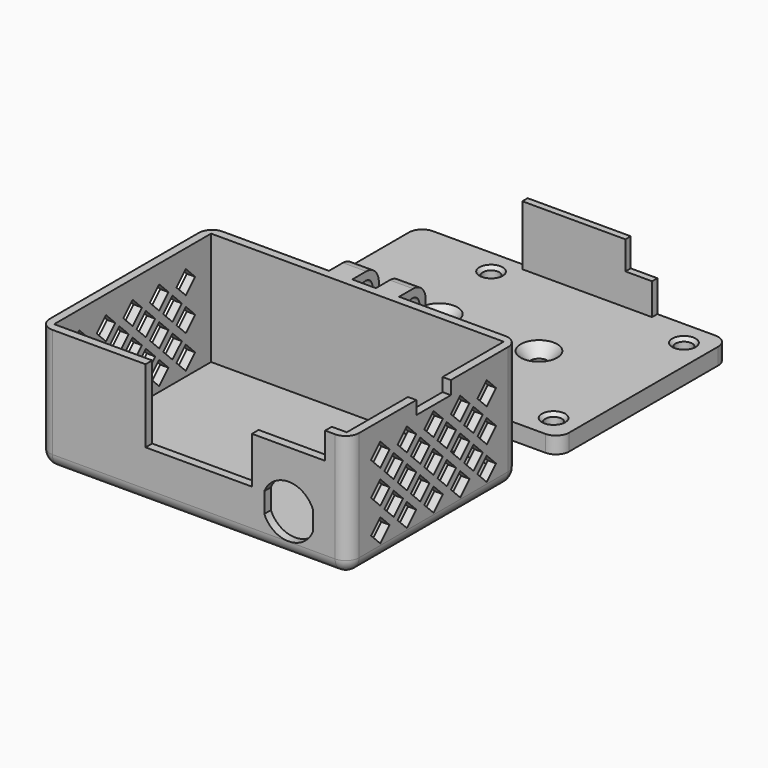
from build123d import *

# Parameters (mm, degrees)
PAD_DEPTH        = 37
SKETCH001_W      = 88
SKETCH001_H      = 59
POCKET_DEPTH     = 34
POCKET001_DEPTH  = 93.001
POCKET002_DEPTH  = 2.5
POCKET003_DEPTH  = 2.5
FILLET_R         = 4
SKETCH012_W      = 7
SKETCH012_H      = 10
PAD005_DEPTH     = 10
FILLET003_R      = 4.75
CHAMFER003_ANGLE = 35
CHAMFER003_SIZE  = 5.2
CHAMFER004_ANGLE = 35
CHAMFER004_SIZE  = 5.2
SKETCH013_R      = 2.6
POCKET007_DEPTH  = 57.051
SKETCH015_W      = 2.5
SKETCH015_H      = 13
POCKET008_DEPTH  = 4
SKETCH005_W      = 93
SKETCH005_H      = 64
PAD001_DEPTH     = 5
FILLET001_R      = 4
SKETCH006_R      = 2.5
POCKET004_DEPTH  = 5.001
CHAMFER_ANGLE    = 48
CHAMFER_SIZE     = 3
SKETCH007_R      = 2.5
POCKET005_DEPTH  = 4.2
CHAMFER001_SIZE  = 1
SKETCH008_W      = 39
SKETCH008_H      = 2
PAD002_DEPTH     = 2
SKETCH009_W      = 31
SKETCH009_H      = 2
PAD003_DEPTH     = 16
SKETCH010_W      = 6.9
SKETCH010_H      = 10
PAD004_DEPTH     = 15
SKETCH014_W      = 8
SKETCH014_H      = 2
PAD006_DEPTH     = 7.5
FILLET004_R      = 4.75
SKETCH016_R      = 2.6
POCKET009_DEPTH  = 64.051
FILLET005_R      = 1


with BuildPart() as body:
    # Sketch → Pad (new body)
    with BuildSketch(Plane.XY):
        with BuildLine():
            Line((0, 4), (0, 60))
            ThreePointArc((4, 64), (1.171573, 62.828427), (0, 60))
            Line((4, 64), (89, 64))
            ThreePointArc((93, 60), (91.828427, 62.828427), (89, 64))
            Line((93, 4), (93, 60))
            ThreePointArc((89, 0), (91.828427, 1.171573), (93, 4))
            Line((4, 0), (89, 0))
            ThreePointArc((0, 4), (1.171573, 1.171573), (4, 0))
        make_face()
    extrude(amount=PAD_DEPTH)

    # Sketch001 (on Face10 of Pad) → Pocket (cut)
    with BuildSketch(Plane.XY.offset(37)):
        with Locations((46.5, 32)):
            Rectangle(SKETCH001_W, SKETCH001_H)
    extrude(amount=-POCKET_DEPTH, mode=Mode.SUBTRACT)

    # Sketch002 (on Face1 of Pocket) → Pocket001 (cut, through all)
    with BuildSketch(Plane(origin=(0, 0, 0), x_dir=(0, -1, 0), z_dir=(-1, 0, 0))):
        Polygon((-52, 4.5), (-48.5, 8), (-52, 11.5), (-55.5, 8), align=None)
        Polygon((-52, 14.5), (-48.5, 18), (-52, 21.5), (-55.5, 18), align=None)
        Polygon((-52, 24.5), (-48.5, 28), (-52, 31.5), (-55.5, 28), align=None)
        Polygon((-42, 24.5), (-38.5, 28), (-42, 31.5), (-45.5, 28), align=None)
        Polygon((-42, 14.5), (-38.5, 18), (-42, 21.5), (-45.5, 18), align=None)
        Polygon((-42, 4.5), (-38.5, 8), (-42, 11.5), (-45.5, 8), align=None)
        Polygon((-32, 24.5), (-28.5, 28), (-32, 31.5), (-35.5, 28), align=None)
        Polygon((-32, 14.5), (-28.5, 18), (-32, 21.5), (-35.5, 18), align=None)
        Polygon((-32, 4.5), (-28.5, 8), (-32, 11.5), (-35.5, 8), align=None)
        Polygon((-22, 24.5), (-18.5, 28), (-22, 31.5), (-25.5, 28), align=None)
        Polygon((-22, 14.5), (-18.5, 18), (-22, 21.5), (-25.5, 18), align=None)
        Polygon((-22, 4.5), (-18.5, 8), (-22, 11.5), (-25.5, 8), align=None)
        Polygon((-12, 24.5), (-8.5, 28), (-12, 31.5), (-15.5, 28), align=None)
        Polygon((-12, 14.5), (-8.5, 18), (-12, 21.5), (-15.5, 18), align=None)
        Polygon((-12, 4.5), (-8.5, 8), (-12, 11.5), (-15.5, 8), align=None)
        Polygon((-47, 9.5), (-43.5, 13), (-47, 16.5), (-50.5, 13), align=None)
        Polygon((-37, 9.5), (-33.5, 13), (-37, 16.5), (-40.5, 13), align=None)
        Polygon((-27, 9.5), (-23.5, 13), (-27, 16.5), (-30.5, 13), align=None)
        Polygon((-17, 9.5), (-13.5, 13), (-17, 16.5), (-20.5, 13), align=None)
        Polygon((-17, 19.5), (-13.5, 23), (-17, 26.5), (-20.5, 23), align=None)
        Polygon((-27, 19.5), (-23.5, 23), (-27, 26.5), (-30.5, 23), align=None)
        Polygon((-37, 19.5), (-33.5, 23), (-37, 26.5), (-40.5, 23), align=None)
        Polygon((-47, 19.5), (-43.5, 23), (-47, 26.5), (-50.5, 23), align=None)
    extrude(amount=-POCKET001_DEPTH, mode=Mode.SUBTRACT)

    # Sketch003 (on Face98 of Pocket001) → Pocket002 (cut)
    with BuildSketch(Plane.XZ):
        with BuildLine():
            Line((67.7, 15.019934), (67.7, 8.980066))
            ThreePointArc((67.7, 8.980066), (75, 4.1), (82.3, 8.980066))
            Line((82.3, 15.019934), (82.3, 8.980066))
            ThreePointArc((82.3, 15.019934), (75, 19.9), (67.7, 15.019934))
        make_face()
    extrude(amount=-POCKET002_DEPTH, mode=Mode.SUBTRACT)

    # Sketch004 (on Face98 of Pocket002) → Pocket003 (cut)
    with BuildSketch(Plane.XZ):
        Polygon((32, 37), (32, 15), (64, 15), (64, 29), (86, 29), (86, 37), align=None)
    extrude(amount=-POCKET003_DEPTH, mode=Mode.SUBTRACT)

    # Fillet
    fillet_edges = [body.edges().sort_by_distance(p)[0] for p in [
        (93, 32, 0),
    ]]
    fillet(fillet_edges, radius=FILLET_R)

    # Sketch012 (on Face102 of Fillet) → Pad005 (join)
    with BuildSketch(Plane(origin=(0, 64, 0), x_dir=(-1, 0, 0), z_dir=(0, 1, 0))):
        with Locations((-53.55, 32)):
            Rectangle(SKETCH012_W, SKETCH012_H)
        with Locations((-39.45, 32)):
            Rectangle(SKETCH012_W, SKETCH012_H)
    extrude(amount=PAD005_DEPTH)

    # Fillet003
    fillet003_edges = [body.edges().sort_by_distance(p)[0] for p in [
        (39.45, 74, 37),
        (53.55, 74, 37),
        (53.55, 74, 27),
        (39.45, 74, 27),
    ]]
    fillet(fillet003_edges, radius=FILLET003_R)

    # Chamfer003
    chamfer003_edges = [body.edges().sort_by_distance(p)[0] for p in [
        (53.55, 64, 27),
    ]]
    chamfer003_side = body.faces().sort_by_distance((53.55, 66.625, 27))[0]
    chamfer(chamfer003_edges, length=CHAMFER003_SIZE, angle=CHAMFER003_ANGLE, reference=chamfer003_side)

    # Chamfer004
    chamfer004_edges = [body.edges().sort_by_distance(p)[0] for p in [
        (39.45, 64, 27),
    ]]
    chamfer004_side = body.faces().sort_by_distance((39.45, 66.625, 27))[0]
    chamfer(chamfer004_edges, length=CHAMFER004_SIZE, angle=CHAMFER004_ANGLE, reference=chamfer004_side)

    # Sketch013 (on Face2 of Chamfer004) → Pocket007 (cut, through all)
    with BuildSketch(Plane(origin=(35.95, 0, 0), x_dir=(0, -1, 0), z_dir=(-1, 0, 0))):
        with Locations((-69, 32)):
            Circle(SKETCH013_R)
    extrude(amount=-POCKET007_DEPTH, mode=Mode.SUBTRACT)

    # Sketch015 (on Face4 of Pocket007) → Pocket008 (cut)
    with BuildSketch(Plane.XY.offset(37)):
        with Locations((91.75, 32)):
            Rectangle(SKETCH015_W, SKETCH015_H)
    extrude(amount=-POCKET008_DEPTH, mode=Mode.SUBTRACT)


with BuildPart() as body001:
    # Sketch005 → Pad001 (new body)
    with BuildSketch(Plane.XY):
        with Locations((46.5, 111)):
            Rectangle(SKETCH005_W, SKETCH005_H)
    extrude(amount=PAD001_DEPTH)

    # Fillet001
    fillet001_edges = [body001.edges().sort_by_distance(p)[0] for p in [
        (93, 143, 2.5),
        (93, 79, 2.5),
        (0, 79, 2.5),
        (0, 143, 2.5),
    ]]
    fillet(fillet001_edges, radius=FILLET001_R)

    # Sketch006 (on Face5 of Fillet001) → Pocket004 (cut, through all)
    with BuildSketch(Plane.XY.offset(5)):
        with Locations((31.5, 111)):
            Circle(SKETCH006_R)
        with Locations((61.5, 111)):
            Circle(SKETCH006_R)
    extrude(amount=-POCKET004_DEPTH, mode=Mode.SUBTRACT)

    # Chamfer
    chamfer_edges = [body001.edges().sort_by_distance(p)[0] for p in [
        (59, 111, 5),
        (29, 111, 5),
    ]]
    chamfer_side = body001.faces().sort_by_distance((46.5, 111, 5))[0]
    chamfer(chamfer_edges, length=CHAMFER_SIZE, angle=CHAMFER_ANGLE, reference=chamfer_side)

    # Sketch007 (on Face1 of Chamfer) → Pocket005 (cut)
    with BuildSketch(Plane.XY.offset(5)):
        with Locations((27.5, 86.5)):
            Circle(SKETCH007_R)
        with Locations((85.5, 86.5)):
            Circle(SKETCH007_R)
        with Locations((85.5, 135.5)):
            Circle(SKETCH007_R)
        with Locations((27.5, 135.5)):
            Circle(SKETCH007_R)
    extrude(amount=-POCKET005_DEPTH, mode=Mode.SUBTRACT)

    # Chamfer001
    chamfer001_edges = [body001.edges().sort_by_distance(p)[0] for p in [
        (25, 135.5, 5),
        (83, 135.5, 5),
        (83, 86.5, 5),
        (25, 86.5, 5),
    ]]
    chamfer(chamfer001_edges, length=CHAMFER001_SIZE)

    # Sketch008 (on Face1 of Chamfer001) → Pad002 (join)
    with BuildSketch(Plane.XY.offset(5)):
        with Locations((52, 142)):
            Rectangle(SKETCH008_W, SKETCH008_H)
    extrude(amount=PAD002_DEPTH)

    # Sketch009 (on Face21 of Pad002) → Pad003 (join)
    with BuildSketch(Plane.XY.offset(7)):
        with Locations((48, 142)):
            Rectangle(SKETCH009_W, SKETCH009_H)
    extrude(amount=PAD003_DEPTH)

    # Sketch010 → Pad004 (join)
    with BuildSketch(Plane.XY):
        with Locations((32.4, 74)):
            Rectangle(SKETCH010_W, SKETCH010_H)
        with Locations((46.5, 74)):
            Rectangle(SKETCH010_W, SKETCH010_H)
        with Locations((60.6, 74)):
            Rectangle(SKETCH010_W, SKETCH010_H)
    extrude(amount=PAD004_DEPTH)

    # Sketch014 → Pad006 (join)
    with BuildSketch(Plane.XY.offset(7)):
        with Locations((67.5, 142)):
            Rectangle(SKETCH014_W, SKETCH014_H)
    extrude(amount=PAD006_DEPTH)

    # Fillet004
    fillet004_edges = [body001.edges().sort_by_distance(p)[0] for p in [
        (60.6, 79, 15),
        (46.5, 79, 15),
        (32.4, 79, 15),
        (32.4, 69, 15),
        (46.5, 69, 15),
        (60.6, 69, 15),
        (60.6, 69, 0),
        (46.5, 69, 0),
        (32.4, 69, 0),
    ]]
    fillet(fillet004_edges, radius=FILLET004_R)

    # Sketch016 (on Face5 of Fillet004) → Pocket009 (cut, through all)
    with BuildSketch(Plane(origin=(28.95, 0, 0), x_dir=(0, -1, 0), z_dir=(-1, 0, 0))):
        with Locations((-74, 10)):
            Circle(SKETCH016_R)
    extrude(amount=-POCKET009_DEPTH, mode=Mode.SUBTRACT)

    # Fillet005
    fillet005_edges = [body001.edges().sort_by_distance(p)[0] for p in [
        (43.05, 77.608757, 13.608757),
        (49.95, 77.608757, 13.608757),
        (57.15, 77.608757, 13.608757),
        (35.85, 77.608757, 13.608757),
    ]]
    fillet(fillet005_edges, radius=FILLET005_R)


solid = Compound([body.part, body001.part])
